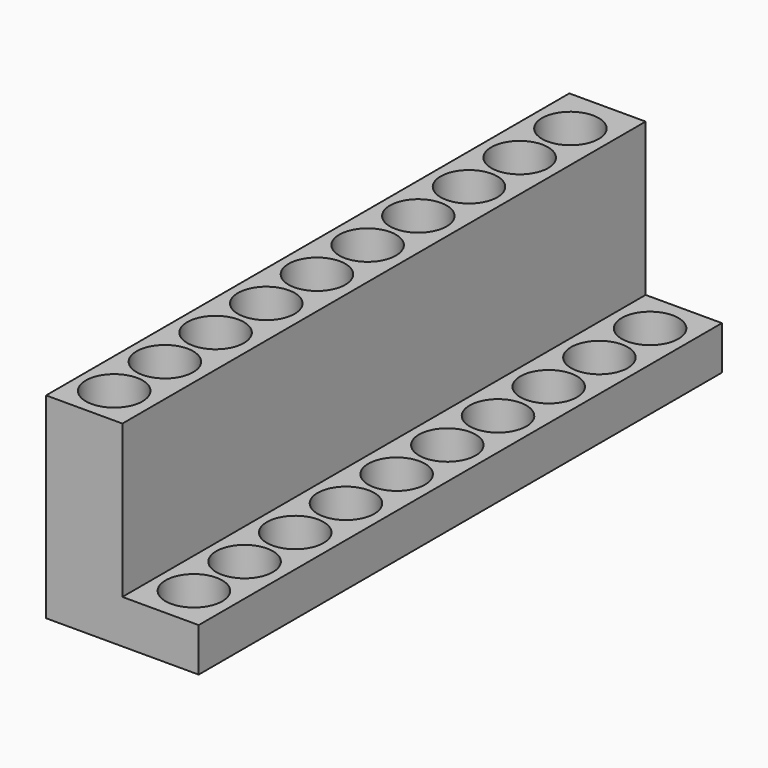
from build123d import *

# Parameters (mm, degrees)
F1_DEPTH = 300
F2_R     = 13
F4_DEPTH = 18
F3_R     = 13
F5_DEPTH = 18


with BuildPart() as f1:
    # F0 (on Front) → F1 (new body)
    with BuildSketch(Plane.XZ):
        Polygon((-14.253071, 50.231077), (-49.253071, 50.231077), (-49.253071, -39.768923), (20.746929, -39.768923), (20.746929, -19.768923), (-14.253071, -19.768923), align=None)
    extrude(amount=F1_DEPTH)

    # F2 (on face) → F4 (cut)
    with BuildSketch(Plane.XY.offset(-19.768923)):
        with Locations((2.785809, -280.291462)):
            Circle(F2_R)
        with Locations((2.834997, -251.291504)):
            Circle(F2_R)
        with Locations((2.884185, -222.291546)):
            Circle(F2_R)
        with Locations((2.933373, -193.291588)):
            Circle(F2_R)
        with Locations((2.982561, -164.291629)):
            Circle(F2_R)
        with Locations((3.031749, -135.291671)):
            Circle(F2_R)
        with Locations((3.080937, -106.291713)):
            Circle(F2_R)
        with Locations((3.130125, -77.291754)):
            Circle(F2_R)
        with Locations((3.179313, -48.291796)):
            Circle(F2_R)
        with Locations((3.228501, -19.291838)):
            Circle(F2_R)
    extrude(amount=-F4_DEPTH, mode=Mode.SUBTRACT)

    # F3 (on face) → F5 (cut)
    with BuildSketch(Plane.XY.offset(50.231077)):
        with Locations((-32.380091, -282.027827)):
            Circle(F3_R)
        with Locations((-32.330904, -253.027869)):
            Circle(F3_R)
        with Locations((-32.281717, -224.027911)):
            Circle(F3_R)
        with Locations((-32.232531, -195.027952)):
            Circle(F3_R)
        with Locations((-32.183344, -166.027994)):
            Circle(F3_R)
        with Locations((-32.134158, -137.028036)):
            Circle(F3_R)
        with Locations((-32.084971, -108.028078)):
            Circle(F3_R)
        with Locations((-32.035784, -79.028119)):
            Circle(F3_R)
        with Locations((-31.986598, -50.028161)):
            Circle(F3_R)
        with Locations((-31.937411, -21.028203)):
            Circle(F3_R)
    extrude(amount=-F5_DEPTH, mode=Mode.SUBTRACT)


solid = f1.part
